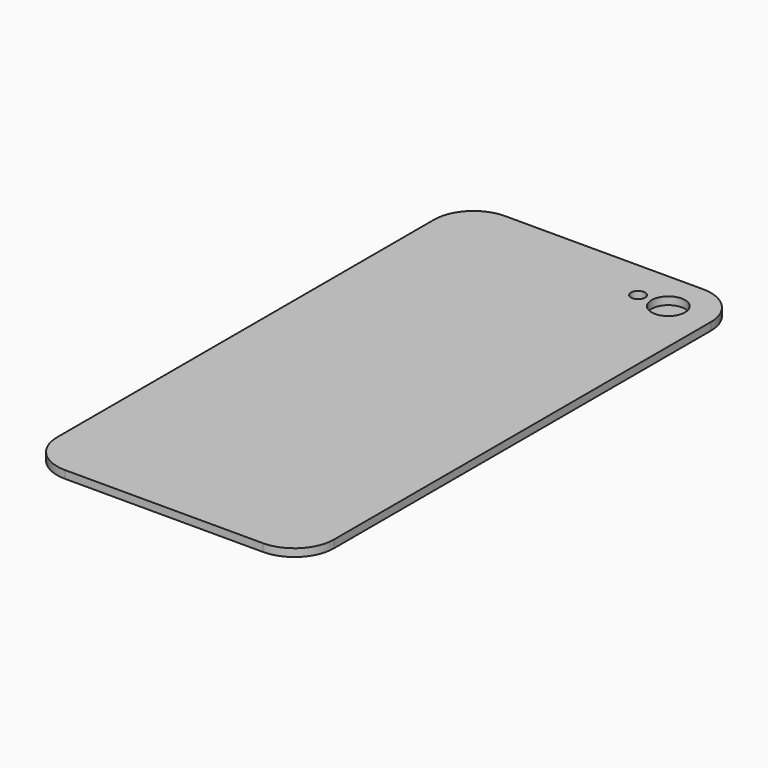
from build123d import *

# Parameters (mm, degrees)
F0_R     = 1.455
F0_R_2   = 3.46
F1_DEPTH = 1.6
F2_DEPTH = 0.1
F3_DEPTH = 0.1


with BuildPart() as f1:
    # F0 (on Top) → F1 (new body)
    with BuildSketch(Plane.XY):
        with BuildLine():
            Line((20.831838, 61.852799), (-20.178162, 61.852799))
            ThreePointArc((-20.178162, 61.852799), (-25.955224, 59.459861), (-28.348162, 53.682799))
            Line((-28.348162, 53.682799), (-28.348162, -43.927201))
            ThreePointArc((-28.348162, -43.927201), (-25.955224, -49.704264), (-20.178162, -52.097201))
            Line((-20.178162, -52.097201), (20.831838, -52.097201))
            ThreePointArc((20.831838, -52.097201), (26.608901, -49.704264), (29.001838, -43.927201))
            Line((29.001838, -43.927201), (29.001838, 53.682799))
            ThreePointArc((29.001838, 53.682799), (26.608901, 59.459861), (20.831838, 61.852799))
        make_face()
        with Locations((13.918162, 53.682799)):
            Circle(F0_R, mode=Mode.SUBTRACT)
        with Locations((20.178162, 53.682799)):
            Circle(F0_R_2, mode=Mode.SUBTRACT)
    extrude(amount=F1_DEPTH)

    # F0 (on Top) → F2 (join)
    with BuildSketch(Plane.XY):
        with Locations((20.178162, 53.682799)):
            Circle(F0_R_2)
    extrude(amount=-F2_DEPTH)


with BuildPart() as f3:
    # F0 (on Top) → F3 (new body)
    with BuildSketch(Plane.XY):
        with Locations((13.918162, 53.682799)):
            Circle(F0_R)
    extrude(amount=-F3_DEPTH)


solid = Compound([f1.part, f3.part])
